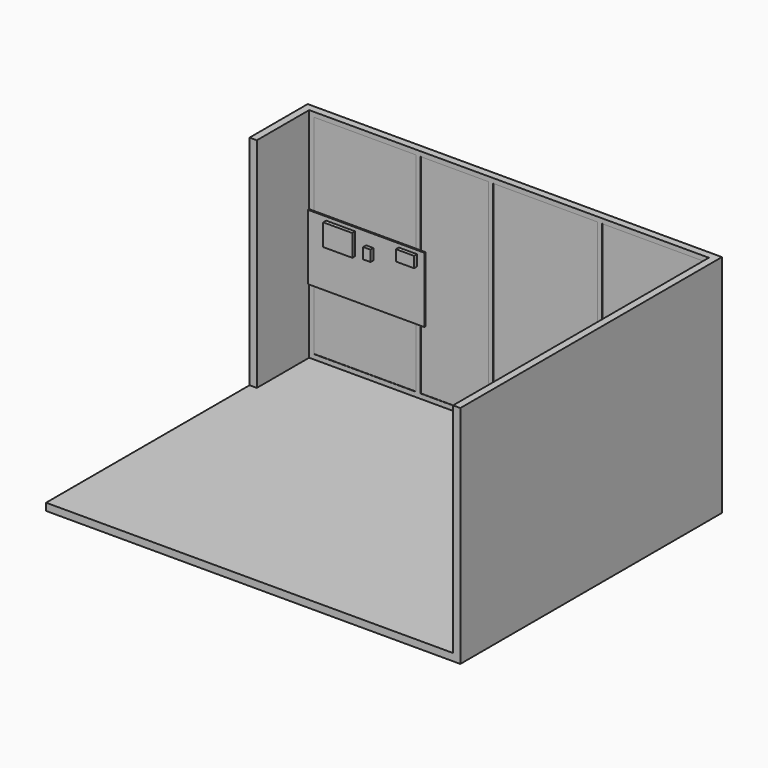
from build123d import *

# Parameters (mm, degrees)
F0_W      = 5700
F0_H      = 4500
F1_DEPTH  = 100
F3_DEPTH  = 3000
F4_W      = 1402.5
F4_H      = 2870
F4_W_2    = 935
F4_W_3    = 1435
F5_DEPTH  = 5
F6_W      = 1600
F6_H      = 900
F7_DEPTH  = 20
F8_W      = 400
F8_H      = 300
F8_W_2    = 100
F8_H_2    = 150
F8_W_3    = 250
F9_DEPTH  = 50
F10_W     = 1370
F10_H     = 2770
F10_W_2   = 1435
F10_W_3   = 935
F11_DEPTH = 5


with BuildPart() as f1:
    # F0 (on Top) → F1 (new body)
    with BuildSketch(Plane.XY):
        with Locations((2850, -2250)):
            Rectangle(F0_W, F0_H)
    extrude(amount=F1_DEPTH)

    # F2 (on face) → F3 (join)
    with BuildSketch(Plane.XY.offset(100)):
        Polygon((5700, 0), (0, 0), (0, -1000), (100, -1000), (100, -100), (5600, -100), (5600, -4500), (5700, -4500), align=None)
    extrude(amount=F3_DEPTH)

    # F4 (on face) → F5 (cut)
    with BuildSketch(Plane.XZ.offset(100)):
        with Locations((866.25, 1600)):
            Rectangle(F4_W, F4_H)
        with Locations((2100, 1600)):
            Rectangle(F4_W_2, F4_H)
        with Locations((3350, 1600)):
            Rectangle(F4_W_3, F4_H)
        with Locations((4833.75, 1600)):
            Rectangle(F4_W, F4_H)
    extrude(amount=-F5_DEPTH, mode=Mode.SUBTRACT)

    # F6 (on face) → F7 (join)
    with BuildSketch(Plane.XZ.offset(100)):
        with Locations((900, 1450)):
            Rectangle(F6_W, F6_H)
    extrude(amount=F7_DEPTH)

    # F8 (on face) → F9 (join)
    with BuildSketch(Plane.XZ.offset(120)):
        with Locations((550, 1700)):
            Rectangle(F8_W, F8_H)
        with Locations((950, 1655)):
            Rectangle(F8_W_2, F8_H_2)
        with Locations((1475, 1775)):
            Rectangle(F8_W_3, F8_H_2)
    extrude(amount=F9_DEPTH)

    # F10 (on face) → F11 (join)
    with BuildSketch(Plane(origin=(0, 0, 0), x_dir=(-1, 0, 0), z_dir=(0, 1, 0))):
        with Locations((-4850, 1550)):
            Rectangle(F10_W, F10_H)
        with Locations((-3382.5, 1550)):
            Rectangle(F10_W_2, F10_H)
        with Locations((-2132.5, 1550)):
            Rectangle(F10_W_3, F10_H)
        with Locations((-882.5, 1550)):
            Rectangle(F10_W_2, F10_H)
    extrude(amount=F11_DEPTH)


solid = f1.part
